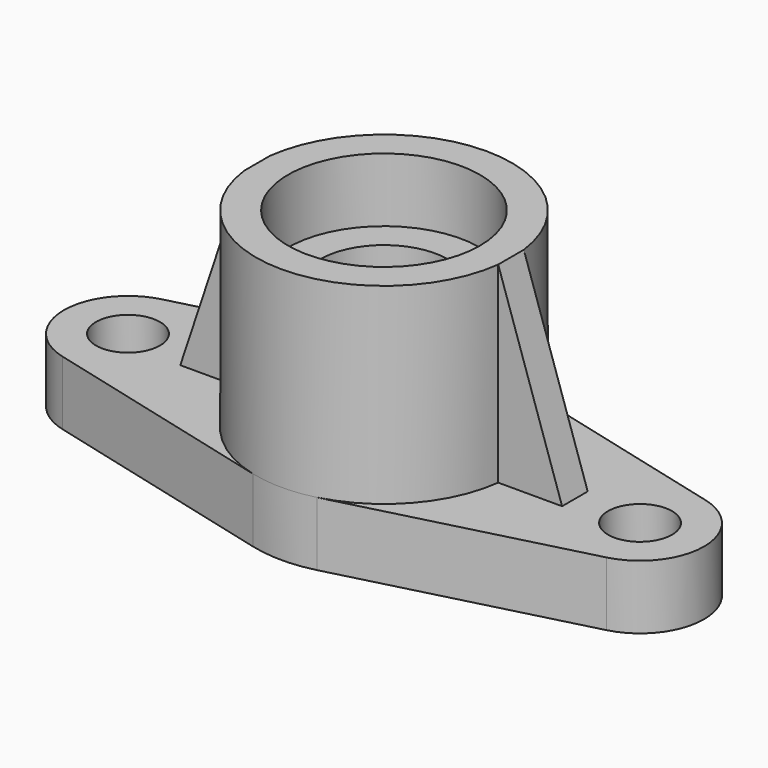
from build123d import *

# Parameters (mm, degrees)
F1_DEPTH  = 10
F2_R      = 5
F3_DEPTH  = 10.001
F4_R      = 20
F5_DEPTH  = 30
F6_R      = 15
F7_DEPTH  = 10
F8_R      = 10
F9_DEPTH  = 30.001
F12_DEPTH = 30
F14_DEPTH = 22.501


with BuildPart() as f1:
    # F0 (on Top) → F1 (new body)
    with BuildSketch(Plane.XY):
        with BuildLine():
            Line((-42.4998887826, -9.6824870811), (-5.0000000003, -19.364916731))
            ThreePointArc((-5.0000000003, -19.364916731), (0, -20), (5.0000000003, -19.364916731))
            Line((5.0000000003, -19.364916731), (42.4998887826, -9.6824870811))
            ThreePointArc((42.4998887826, -9.6824870811), (50, 0), (42.4998887826, 9.6824870811))
            Line((42.4998887826, 9.6824870811), (5.128827219, 19.3311958077))
            ThreePointArc((5.128827219, 19.3311958077), (0, 20), (-5.128827219, 19.3311958077))
            Line((-5.128827219, 19.3311958077), (-42.4998887826, 9.6824870811))
            ThreePointArc((-42.4998887826, 9.6824870811), (-50, 0), (-42.4998887826, -9.6824870811))
        make_face()
    extrude(amount=F1_DEPTH)

    # F2 (on face) → F3 (cut, through all)
    with BuildSketch(Plane.XY.offset(10)):
        with Locations((-40, 0)):
            Circle(F2_R)
        with Locations((40, 0)):
            Circle(F2_R)
    extrude(amount=-F3_DEPTH, mode=Mode.SUBTRACT)

    # F4 (on face) → F5 (join)
    with BuildSketch(Plane.XY.offset(10)):
        Circle(F4_R)
    extrude(amount=F5_DEPTH)

    # F6 (on face) → F7 (cut)
    with BuildSketch(Plane.XY.offset(40)):
        Circle(F6_R)
    extrude(amount=-F7_DEPTH, mode=Mode.SUBTRACT)

    # F8 (on face) → F9 (cut, through all)
    with BuildSketch(Plane.XY.offset(30)):
        Circle(F8_R)
    extrude(amount=-F9_DEPTH, mode=Mode.SUBTRACT)

    # F11 (on offset) → F12 (join)
    with BuildSketch(Plane.XY.offset(10)):
        Polygon((-19.8240634054, -2.5), (-19.8240634054, 0), (-19.8240634054, 2.5), (-29.8240634054, 2.5), (-29.8240634054, 0), (-29.8240634054, -2.5), align=None)
        Polygon((29.8240634054, 2.5), (19.8240634054, 2.5), (19.8240634054, 0), (19.8240634054, -2.5), (29.8240634054, -2.5), (29.8240634054, 0), align=None)
    extrude(amount=F12_DEPTH)

    # F13 (on face) → F14 (cut, through all)
    with BuildSketch(Plane.XZ.offset(2.5)):
        Polygon((-29.8240634054, 40), (-29.8240634054, 10), (-19.843134833, 40), align=None)
        Polygon((19.843134833, 40), (29.8240634054, 10), (29.8240634054, 40), align=None)
    extrude(amount=-F14_DEPTH, mode=Mode.SUBTRACT)


solid = f1.part
